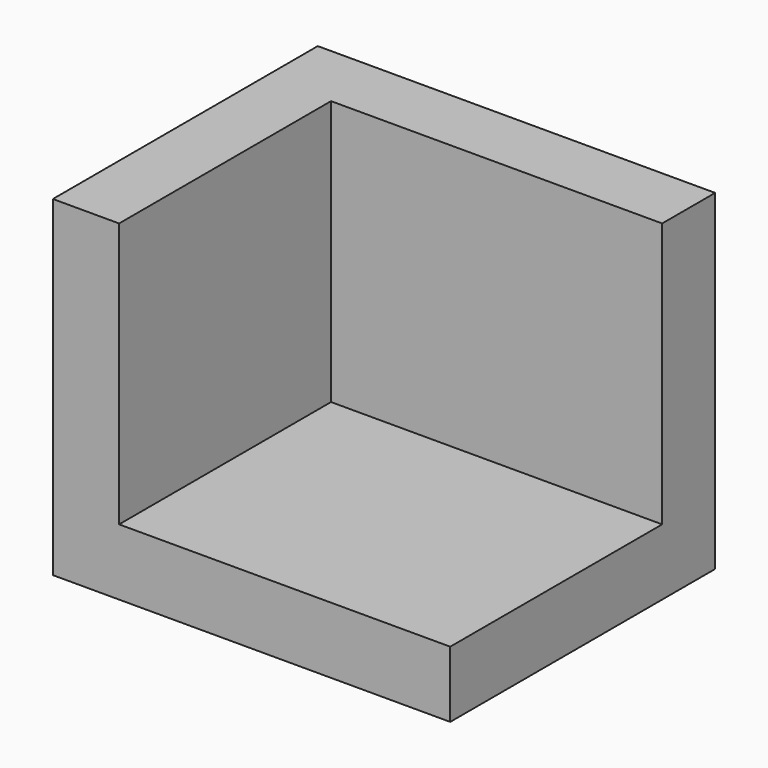
from build123d import *

# Parameters (mm, degrees)
F0_W     = 12.7
F0_H     = 63.5
F1_DEPTH = 63.5
F2_DEPTH = 63.5
F3_T     = -12.7


with BuildPart() as f1:
    # F0 (on Front) → F1 (new body)
    with BuildSketch(Plane.XZ):
        with Locations((6.35, -31.75)):
            Rectangle(F0_W, F0_H)
    extrude(amount=F1_DEPTH)

    # F2 (add): a face of the model
    f2_faces = [f1.faces().sort_by_distance(p)[0] for p in [
        (12.7, -31.75, -31.75),
    ]]
    extrude(f2_faces, amount=F2_DEPTH)

    # F3
    f3_openings = [f1.faces().sort_by_distance(p)[0] for p in [
        (38.1, -63.5, -31.75),
        (38.1, -31.75, 0),
        (76.2, -31.75, -31.75),
    ]]
    offset(amount=F3_T, openings=f3_openings)


solid = f1.part
